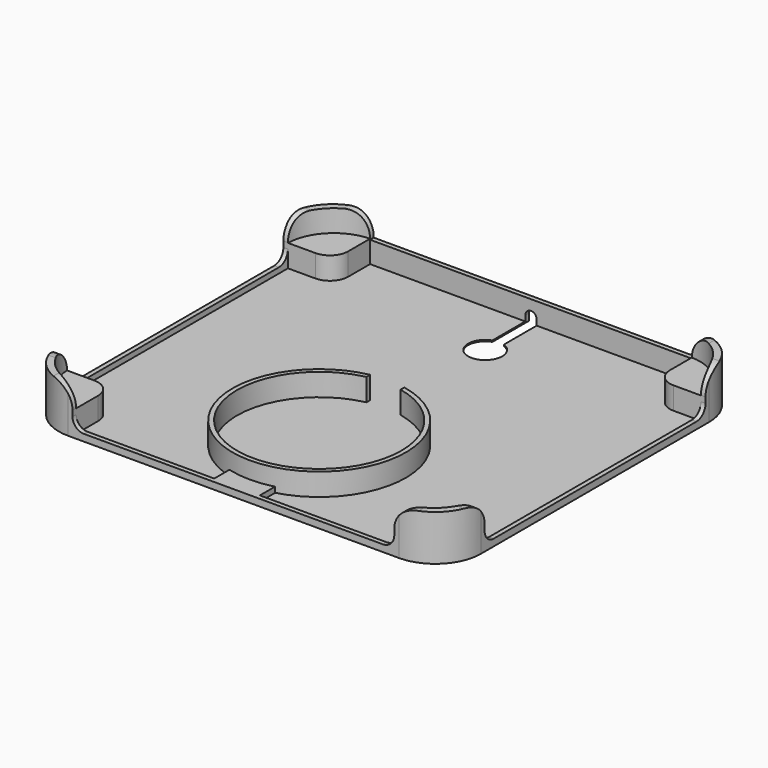
from build123d import *

# Parameters (mm, degrees)
BOX_W               = 15
BOX_H               = 10
BOX_DEPTH           = 10
SKETCH002_R         = 38
SKETCH002_R_2       = 36
PAD001_DEPTH        = 9.8
BOX002_W            = 5
BOX002_H            = 5
BOX002_DEPTH        = 3
CYLINDER_R          = 2.5
CYLINDER_DEPTH      = 5
CYLINDER_ROLL_ANGLE = 90
PAD005_DEPTH        = 0.6
PAD004_DEPTH        = 20
SKETCH003_W         = 22
SKETCH003_H         = 22
PAD003_DEPTH        = 10.4
PAD_DEPTH           = 3
BOX001_W            = 141
BOX001_H            = 2
BOX001_DEPTH        = 10
SKETCH006_W         = 20
SKETCH006_H         = 11
PAD006_DEPTH        = 3
FILLET_R            = 5
FILLET001_R         = 9.5
FILLET002_R         = 20
FILLET003_R         = 8


with BuildPart() as usb_connection:
    # Box → Box (new body)
    with BuildSketch(Plane(origin=(85, 80, 0.6), x_dir=(1, 0, 0), z_dir=(0, 0, 1))):
        with Locations((7.5, 5)):
            Rectangle(BOX_W, BOX_H)
    extrude(amount=BOX_DEPTH)


with BuildPart() as cut:
    # Sketch002 → Pad001 (new body)
    with BuildSketch(Plane.XY.offset(0.6)):
        with Locations((92.5, 47)):
            Circle(SKETCH002_R)
        with Locations((92.5, 47)):
            Circle(SKETCH002_R_2, mode=Mode.SUBTRACT)
    extrude(amount=PAD001_DEPTH)

    # Cut: cut USB_CONNECTION
    add(usb_connection.part, mode=Mode.SUBTRACT)


with BuildPart() as obj1:
    # Box002 → Box002 (new body)
    with BuildSketch(Plane(origin=(90, 162, 0), x_dir=(1, 0, 0), z_dir=(0, 0, 1))):
        with Locations((2.5, 2.5)):
            Rectangle(BOX002_W, BOX002_H)
    extrude(amount=BOX002_DEPTH)


with BuildPart() as zylinder:
    # Cylinder → Cylinder (new body)
    with BuildSketch(Plane.XY):
        Circle(CYLINDER_R)
    extrude(amount=CYLINDER_DEPTH)


with BuildPart() as zylinder_1:
    # Cylinder roll: moved
    add(zylinder.part.rotate(Axis((0, 0, 0), (1, 0, 0)), CYLINDER_ROLL_ANGLE))


with BuildPart() as zylinder_2:
    # Cylinder placement: moved
    add(zylinder_1.part.moved(Location((92.5, 166, 3))))


with BuildPart() as pad005:
    # Sketch005 → Pad005 (new body)
    with BuildSketch(Plane.XY):
        with BuildLine():
            Line((185, 165), (185, 0))
            Line((185, 0), (0, 0))
            Line((0, 0), (0, 165))
            Line((0, 165), (90, 165))
            Line((90, 165), (90, 145))
            ThreePointArc((90, 145), (92.5, 130.428932), (95, 145))
            Line((95, 165), (95, 145))
            Line((185, 165), (95, 165))
        make_face()
    extrude(amount=PAD005_DEPTH)


with BuildPart() as pad004:
    # Sketch004 → Pad004 (new body)
    with BuildSketch(Plane.XY):
        with BuildLine():
            Line((0, 165), (0, 143))
            Line((0, 143), (2.006098, 143))
            ThreePointArc((22, 162.993902), (8.004311, 156.995689), (2.006098, 143))
            Line((22, 162.993902), (22, 165))
            Line((0, 165), (22, 165))
        make_face()
        with BuildLine():
            Line((185, 165), (163, 165))
            Line((163, 165), (163, 162.993902))
            ThreePointArc((182.993902, 143), (176.995689, 156.995689), (163, 162.993902))
            Line((185, 143), (182.993902, 143))
            Line((185, 165), (185, 143))
        make_face()
        with BuildLine():
            Line((185, 22), (185, 0))
            Line((185, 0), (163, 0))
            Line((163, 0), (163, 2))
            ThreePointArc((163, 2), (177.001643, 7.998357), (183, 22))
            Line((185, 22), (183, 22))
        make_face()
        with BuildLine():
            Line((0, 0), (22, 0))
            Line((22, 0), (22, 2))
            ThreePointArc((2, 22), (8, 8), (22, 2))
            Line((0, 22), (2, 22))
            Line((0, 0), (0, 22))
        make_face()
    extrude(amount=PAD004_DEPTH)


with BuildPart() as pad003:
    # Sketch003 → Pad003 (new body)
    with BuildSketch(Plane.XY):
        with Locations((11, 154)):
            Rectangle(SKETCH003_W, SKETCH003_H)
        with Locations((174, 154)):
            Rectangle(SKETCH003_W, SKETCH003_H)
        with Locations((174, 11)):
            Rectangle(SKETCH003_W, SKETCH003_H)
        with Locations((11, 11)):
            Rectangle(SKETCH003_W, SKETCH003_H)
    extrude(amount=PAD003_DEPTH)


with BuildPart() as pad:
    # Sketch → Pad (new body)
    with BuildSketch(Plane.XY):
        Polygon((0, 0), (185, 0), (185, 165), (95, 165), (95, 163), (173, 163), (183, 153), (183, 12), (173, 2), (12, 2), (2, 12), (2, 153), (12, 163), (90, 163), (90, 165), (0, 165), align=None)
    extrude(amount=PAD_DEPTH)


with BuildPart() as obj2:
    # Box001 → Box001 (new body)
    with BuildSketch(Plane(origin=(22, 163, 0), x_dir=(1, 0, 0), z_dir=(0, 0, 1))):
        with Locations((70.5, 1)):
            Rectangle(BOX001_W, BOX001_H)
    extrude(amount=BOX001_DEPTH)


with BuildPart() as fillet003:
    # Sketch006 → Pad006 (new body)
    with BuildSketch(Plane.XY):
        with Locations((92.5, 5.5)):
            Rectangle(SKETCH006_W, SKETCH006_H)
    extrude(amount=PAD006_DEPTH)

    # Fusion: union Pad005, Pad004, Pad003, Pad, obj2
    add(pad005.part)
    add(pad004.part)
    add(pad003.part)
    add(pad.part)
    add(obj2.part)

    # Cut001: cut Zylinder
    add(zylinder_2.part, mode=Mode.SUBTRACT)

    # Cut002: cut obj1
    add(obj1.part, mode=Mode.SUBTRACT)

    # Fillet
    fillet_edges = [fillet003.edges().sort_by_distance(p)[0] for p in [
        (1, 143, 3),
        (1, 22, 3),
        (22, 1, 3),
        (163, 1, 3),
        (184, 22, 3),
        (184, 143, 3),
    ]]
    fillet(fillet_edges, radius=FILLET_R)

    # Fillet001
    fillet001_edges = [fillet003.edges().sort_by_distance(p)[0] for p in [
        (1, 22, 20),
        (22, 1, 20),
        (1.003049, 143, 20),
        (22, 163.996951, 20),
        (183.996951, 143, 20),
        (163, 163.996951, 20),
        (184, 22, 20),
        (163, 1, 20),
    ]]
    fillet(fillet001_edges, radius=FILLET001_R)

    # Fillet002
    fillet002_edges = [fillet003.edges().sort_by_distance(p)[0] for p in [
        (0, 0, 15.2),
        (185, 0, 15.2),
        (185, 165, 15.2),
        (0, 165, 15.2),
    ]]
    fillet(fillet002_edges, radius=FILLET002_R)

    # Fillet003
    fillet003_edges = [fillet003.edges().sort_by_distance(p)[0] for p in [
        (22, 143, 5.5),
        (163, 143, 5.5),
        (163, 22, 5.5),
        (22, 22, 5.5),
    ]]
    fillet(fillet003_edges, radius=FILLET003_R)


solid = Compound([cut.part, fillet003.part])
